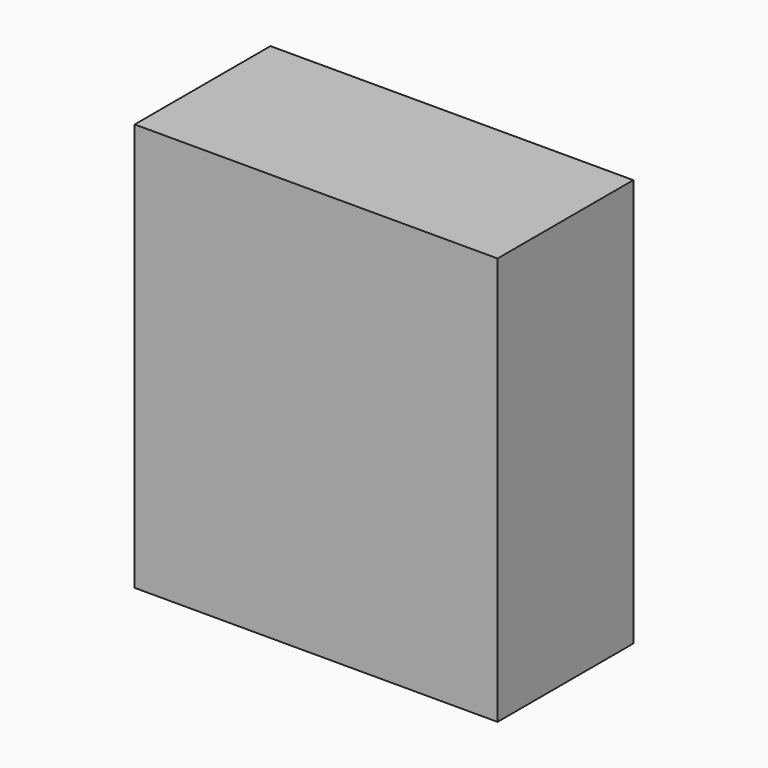
from build123d import *

# Parameters (mm, degrees)
F0_W      = 1005
F0_H      = 550
F1_DEPTH  = 20
F2_W      = 1005
F2_H      = 20
F3_DEPTH  = 2200
F4_W      = 20
F4_H      = 530
F5_DEPTH  = 2200
F6_W      = 1005
F6_H      = 550
F7_DEPTH  = 20
F8_R      = 17.7646151172
F9_DEPTH  = 982.98
F10_W     = 1005
F10_H     = 1130
F11_DEPTH = 20
F12_W     = 965
F12_H     = 350
F13_DEPTH = 450
F14_W     = 479.5
F14_H     = 344
F15_DEPTH = 20
F17_DEPTH = 10
F19_DEPTH = 10
F21_DEPTH = 10
F22_W     = 1005
F22_H     = 2220
F23_DEPTH = 550


with BuildPart() as f1:
    # F0 (on Top) → F1 (new body)
    with BuildSketch(Plane.XY):
        Rectangle(F0_W, F0_H)
    extrude(amount=F1_DEPTH)

    # F2 (on face) → F3 (join)
    with BuildSketch(Plane.XY.offset(20)):
        with Locations((0, 265)):
            Rectangle(F2_W, F2_H)
    extrude(amount=F3_DEPTH)

    # F4 (on face) → F5 (join)
    with BuildSketch(Plane.XY.offset(20)):
        with Locations((-492.5, -10)):
            Rectangle(F4_W, F4_H)
        with Locations((492.5, -10)):
            Rectangle(F4_W, F4_H)
    extrude(amount=F5_DEPTH)

    # F6 (on face) → F7 (join)
    with BuildSketch(Plane.XY.offset(2220)):
        Rectangle(F6_W, F6_H)
    extrude(amount=-F7_DEPTH)

    # F8 (on face) → F9 (join)
    with BuildSketch(Plane(origin=(482.5, 0, 0), x_dir=(0, -1, 0), z_dir=(-1, 0, 0))):
        with Locations((0, 1643.2266235352)):
            Circle(F8_R)
    extrude(amount=F9_DEPTH)

    # F22 (on face) → F23 (cut)
    with BuildSketch(Plane.XZ.offset(275)):
        with Locations((0, 1110)):
            Rectangle(F22_W, F22_H)
    extrude(amount=-F23_DEPTH, mode=Mode.SUBTRACT)


with BuildPart() as f11:
    # F10 (on face) → F11 (new body)
    with BuildSketch(Plane(origin=(0, 275, 0), x_dir=(-1, 0, 0), z_dir=(0, 1, 0))):
        with Locations((0, 565)):
            Rectangle(F10_W, F10_H)
    extrude(amount=F11_DEPTH)

    # F12 (on face) → F13 (join)
    with BuildSketch(Plane(origin=(0, 295, 0), x_dir=(-1, 0, 0), z_dir=(0, 1, 0))):
        Polygon((502.5, 1130), (-502.5, 1130), (-502.5, 1110), (-502.5, 760), (-502.5, 740), (-502.5, 390), (-502.5, 370), (-502.5, 20), (-502.5, 0), (482.5, 0), (502.5, 0), (502.5, 20), (502.5, 370), (502.5, 390), (502.5, 740), (502.5, 760), (502.5, 1110), align=None)
        with Locations((0, 195)):
            Rectangle(F12_W, F12_H, mode=Mode.SUBTRACT)
        with Locations((0, 565)):
            Rectangle(F12_W, F12_H, mode=Mode.SUBTRACT)
        with Locations((0, 935)):
            Rectangle(F12_W, F12_H, mode=Mode.SUBTRACT)
    extrude(amount=F13_DEPTH)


with BuildPart() as f15:
    # F14 (on face) → F15 (new body)
    with BuildSketch(Plane(origin=(0, 745, 0), x_dir=(-1, 0, 0), z_dir=(0, 1, 0))):
        with Locations((239.75, 935)):
            Rectangle(F14_W, F14_H)
        with Locations((-239.75, 935)):
            Rectangle(F14_W, F14_H)
    extrude(amount=-F15_DEPTH)

    # F16 (on face) → F17 (cut)
    with BuildSketch(Plane(origin=(0, 745, 0), x_dir=(-1, 0, 0), z_dir=(0, 1, 0))):
        Polygon((-150, 763), (168.7952763235, 763), (116.8337520964, 793), (-98.0384757729, 793), align=None)
    extrude(amount=-F17_DEPTH, mode=Mode.SUBTRACT)


with BuildPart() as f15b:
    # F14 (on face) → F15, piece 2 (new body)
    with BuildSketch(Plane(origin=(0, 745, 0), x_dir=(-1, 0, 0), z_dir=(0, 1, 0))):
        with Locations((239.75, 565)):
            Rectangle(F14_W, F14_H)
        with Locations((-239.75, 565)):
            Rectangle(F14_W, F14_H)
    extrude(amount=-F15_DEPTH)

    # F18 (on face) → F19 (cut)
    with BuildSketch(Plane(origin=(0, 745, 0), x_dir=(-1, 0, 0), z_dir=(0, 1, 0))):
        Polygon((-150, 393), (0, 393), (0, 423), (-98.0384757729, 423), align=None)
        Polygon((0, 423), (0, 393), (150, 393), (98.0384757729, 423), align=None)
    extrude(amount=-F19_DEPTH, mode=Mode.SUBTRACT)


with BuildPart() as f15c:
    # F14 (on face) → F15, piece 3 (new body)
    with BuildSketch(Plane(origin=(0, 745, 0), x_dir=(-1, 0, 0), z_dir=(0, 1, 0))):
        with Locations((239.75, 195)):
            Rectangle(F14_W, F14_H)
        with Locations((-239.75, 195)):
            Rectangle(F14_W, F14_H)
    extrude(amount=-F15_DEPTH)

    # F20 (on face) → F21 (cut)
    with BuildSketch(Plane(origin=(0, 745, 0), x_dir=(-1, 0, 0), z_dir=(0, 1, 0))):
        Polygon((-150, 23), (0, 23), (0, 53), (-98.0384757729, 53), align=None)
        Polygon((0, 53), (0, 23), (150, 23), (98.0384757729, 53), align=None)
    extrude(amount=-F21_DEPTH, mode=Mode.SUBTRACT)


solid = Compound([f11.part, f15.part, f15b.part, f15c.part])
